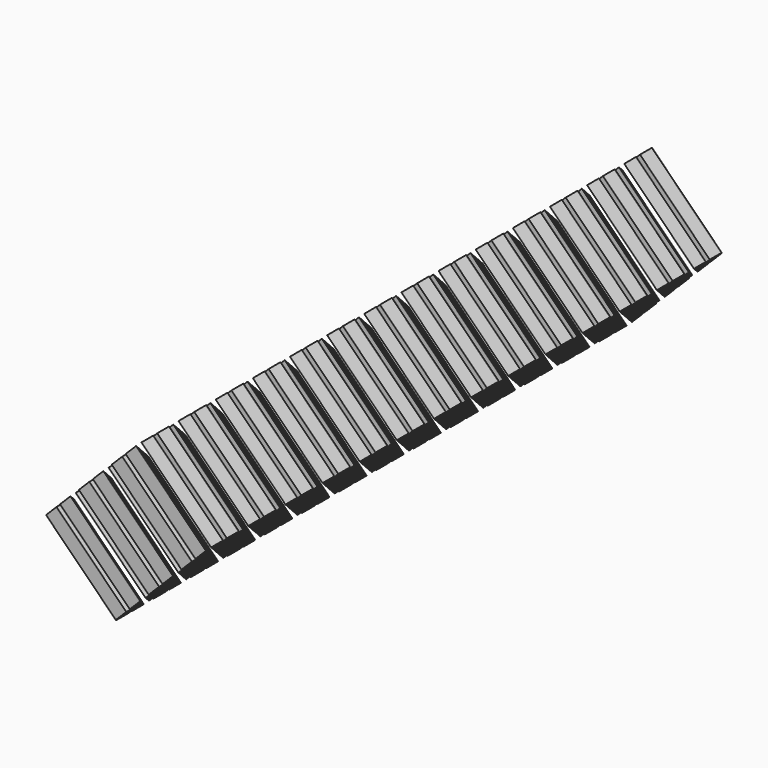
from build123d import *

# Parameters (mm, degrees)
PAD004_DEPTH         = 20
ARRAY_COUNT          = 4
ARRAY001_X_COUNT     = 3
ARRAY001_X_PITCH     = 9.414214
ARRAY001_Y_COUNT     = 14
ARRAY001_Y_PITCH     = 9.414214
ARRAY001_PITCH_ANGLE = -45


with BuildPart() as polarpattern:
    # Sketch012 → Pad004 (new body)
    with BuildSketch(Plane.XY):
        Polygon((1.207107, 0.5), (4.207107, 3.5), (4.207107, 0.5), align=None)
    extrude(amount=PAD004_DEPTH)

    # Array: PolarPattern ×4 about axis
    array_axis = Axis((0, 0, 0), (0, 0, 1))


with BuildPart() as polarpattern_1:
    add(polarpattern.part)
    for i in range(1, ARRAY_COUNT):
        add(polarpattern.part.rotate(array_axis, i * 360 / ARRAY_COUNT))


with BuildPart() as obj1:
    # Part__Mirroring001: instance of PolarPattern
    add(polarpattern_1.part.mirror(Plane(origin=(0, 0, 0), x_dir=(0, -1, 0), z_dir=(1, 0, 0))))

    # Compound: union PolarPattern
    add(polarpattern_1.part)

    # Array001 X: obj1_3


with BuildPart() as obj1_1:
    add(obj1.part)
    with Locations(*[(i * ARRAY001_X_PITCH, 0, 0) for i in range(1, ARRAY001_X_COUNT)]):
        add(obj1.part)

    # Array001 Y: obj1 ×14


with BuildPart() as obj1_2:
    add(obj1_1.part)
    with Locations(*[(0, i * ARRAY001_Y_PITCH, 0) for i in range(1, ARRAY001_Y_COUNT)]):
        add(obj1_1.part)


with BuildPart() as obj1_3:
    # Array001 pitch: moved
    add(obj1_2.part.rotate(Axis((0, 0, 0), (0, 1, 0)), ARRAY001_PITCH_ANGLE))


with BuildPart() as obj1_4:
    # Array001 placement: moved
    add(obj1_3.part.moved(Location((2, 15, -4))))


solid = obj1_4.part
